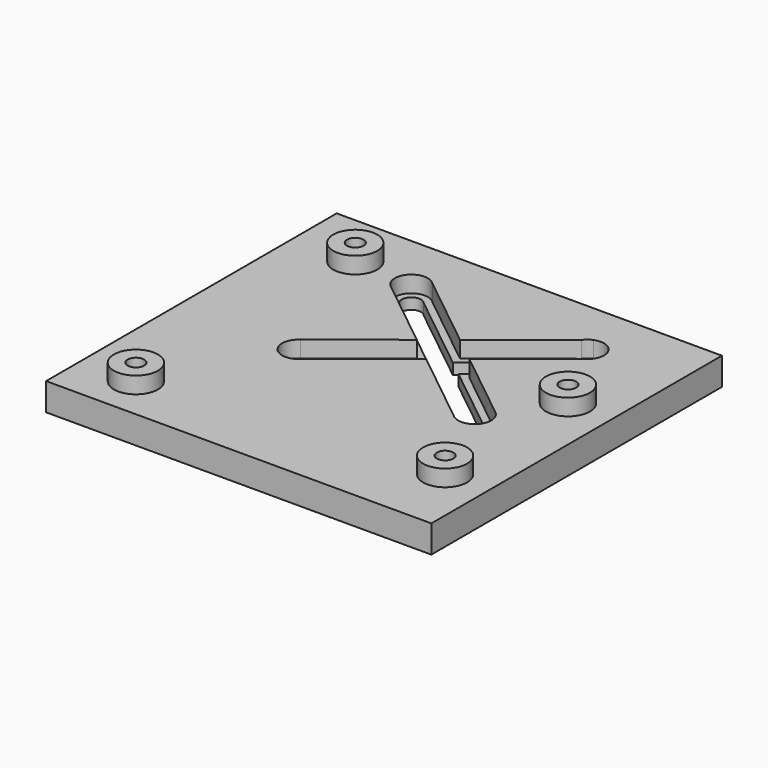
from build123d import *

# Parameters (mm, degrees)
F0_W          = 70
F0_H          = 60
F1_DEPTH      = 5
F2_R          = 4
F3_DEPTH      = 3
F4_R          = 1.5
F5_DEPTH      = 3.001
F5_DEPTH_BACK = 5
F6_DEPTH      = 3
F7_DEPTH      = 3
F9_DEPTH      = 5
F11_DEPTH     = 3
F13_DEPTH     = 2.5


with BuildPart() as f1:
    # F0 (on Top) → F1 (new body)
    with BuildSketch(Plane.XY):
        Rectangle(F0_W, F0_H)
    extrude(amount=F1_DEPTH)

    # F2 (on face) → F3 (join)
    with BuildSketch(Plane.XY.offset(5)):
        with Locations((-23.7, 23.1)):
            Circle(F2_R)
        with Locations((-25, -25.1)):
            Circle(F2_R)
        with Locations((27.1, 7.9)):
            Circle(F2_R)
        with Locations((27.1, -20)):
            Circle(F2_R)
    extrude(amount=F3_DEPTH)

    # F4 (on face) → F5 (cut, two sides)
    with BuildSketch(Plane.XY.offset(5)) as f5_sk:
        with Locations((-23.7, 23.1)):
            Circle(F4_R)
        with Locations((27.1, 7.9)):
            Circle(F4_R)
        with Locations((27.1, -20)):
            Circle(F4_R)
        with Locations((-25, -25.1)):
            Circle(F4_R)
    extrude(amount=F5_DEPTH, mode=Mode.SUBTRACT)
    extrude(f5_sk.sketch, amount=-F5_DEPTH_BACK, mode=Mode.SUBTRACT)

    # F6 (add): a face of the model
    f6_faces = [f1.faces().sort_by_distance(p)[0] for p in [
        (0, -30, 2.5),
    ]]
    extrude(f6_faces, amount=F6_DEPTH)

    # F7 (add): a face of the model
    f7_faces = [f1.faces().sort_by_distance(p)[0] for p in [
        (0, 30, 2.5),
    ]]
    extrude(f7_faces, amount=F7_DEPTH)

    # F8 (on face) → F9 (cut)
    with BuildSketch(Plane.XY.offset(5)):
        with BuildLine():
            Line((-14.3054683646, -1.7219720702), (-14.0948043176, -1.5533969252))
            ThreePointArc((-14.0948043176, -1.5533969252), (-14.2033899748, -1.6336185148), (-14.3054683646, -1.7219720702))
        make_face()
        with BuildLine():
            Line((0.0942490372, 9.8008030979), (-14.0948043176, -1.5533969252))
            Line((-14.0948043176, -1.5533969252), (-14.3054683646, -1.7219720702))
            ThreePointArc((-14.3054683646, -1.7219720702), (-14.4654537532, -4.1069079107), (-12.0966540364, -4.4267550448))
            Line((-12.0966540364, -4.4267550448), (-11.9406668878, -4.3019831308))
            Line((-11.9406668878, -4.3019831308), (2.8915675597, 7.5621114407))
            Line((2.8915675597, 7.5621114407), (17.79653445, -4.3663210058))
            ThreePointArc((17.79653445, -4.3663210058), (20.2569293491, -4.0927049714), (19.9819440544, -1.632462731))
            Line((19.9819440544, -1.632462731), (5.6767092201, 9.7899068663))
            Line((5.6767092201, 9.7899068663), (19.9831212168, 21.2334034958))
            ThreePointArc((19.9831212168, 21.2334034958), (20.2564890013, 23.6932556011), (17.7966100252, 23.9663814852))
            Line((17.7966100252, 23.9663814852), (2.875636553, 12.0264928184))
            Line((2.875636553, 12.0264928184), (-11.7579023913, 23.711004976))
            ThreePointArc((-11.7579023913, 23.711004976), (-14.2972510493, 23.8856651764), (-14.3249394698, 21.3404675134))
            Line((-14.3249394698, 21.3404675134), (-14.0726513096, 21.1385615113))
            Line((-14.0726513096, 21.1385615113), (0.0942490372, 9.8008030979))
        make_face()
        with BuildLine():
            Line((-11.9406668878, -4.3019831308), (-12.0966540364, -4.4267550448))
            ThreePointArc((-12.0966540364, -4.4267550448), (-12.0168787832, -4.3665965042), (-11.9406668878, -4.3019831308))
        make_face()
        with BuildLine():
            ThreePointArc((-14.3249394698, 21.3404675134), (-14.20346555, 21.2336789942), (-14.0726513096, 21.1385615113))
            Line((-14.0726513096, 21.1385615113), (-14.3249394698, 21.3404675134))
        make_face()
    extrude(amount=-F9_DEPTH, mode=Mode.SUBTRACT)

    # F10 (on face) → F11 (cut)
    with BuildSketch(Plane.XY.offset(5)):
        with BuildLine():
            Line((-1.8575315971, 9.7664474073), (-14.7756829148, -0.5049047258))
            ThreePointArc((-14.7756829148, -0.5049047258), (-15.6013647029, -4.6712575855), (-11.433176099, -5.4876216764))
            Line((-11.433176099, -5.4876216764), (-11.0521931213, -5.1829866811))
            Line((-11.0521931213, -5.1829866811), (2.8911088828, 5.9661144314))
            Line((2.8911088828, 5.9661144314), (16.9025515531, -5.2472313346))
            Line((16.9025515531, -5.2472313346), (17.1329612476, -5.431628019))
            ThreePointArc((17.1329612476, -5.431628019), (21.2784372428, -4.8153147212), (20.7625294306, -0.6561498487))
            Line((20.7625294306, -0.6561498487), (7.6801953311, 9.7954806055))
            Line((7.6801953311, 9.7954806055), (20.7635173832, 20.2569394769))
            ThreePointArc((20.7635173832, 20.2569394769), (21.4878080636, 24.1004643496), (17.7966100252, 25.3936532288))
            Line((17.7966100252, 25.3936532288), (16.4145835398, 24.2947900603))
            Line((16.4145835398, 24.2947900603), (2.9409192439, 13.5817439671))
            Line((2.9409192439, 13.5817439671), (-10.9395035381, 24.6709768489))
            ThreePointArc((-10.9395035381, 24.6709768489), (-15.232323279, 24.7203169337), (-15.1789230669, 20.4275457788))
            Line((-15.1789230669, 20.4275457788), (-14.7762238118, 20.1052659041))
            Line((-14.7762238118, 20.1052659041), (-1.8575315971, 9.7664474073))
        make_face()
        with BuildLine():
            Line((-11.0521931213, -5.1829866811), (-11.433176099, -5.4876216764))
            ThreePointArc((-11.433176099, -5.4876216764), (-11.2364826168, -5.3430605231), (-11.0521931213, -5.1829866811))
        make_face()
        with BuildLine():
            ThreePointArc((-15.1789230669, 20.4275457788), (-14.9845123714, 20.2577354186), (-14.7762238118, 20.1052659041))
            Line((-14.7762238118, 20.1052659041), (-15.1789230669, 20.4275457788))
        make_face()
        with BuildLine():
            Line((17.1329612476, -5.431628019), (16.9025515531, -5.2472313346))
            ThreePointArc((16.9025515531, -5.2472313346), (17.0154876286, -5.3422645814), (17.1329612476, -5.431628019))
        make_face()
        with BuildLine():
            ThreePointArc((17.7966100252, 25.3936532288), (17.0229247716, 24.9481972003), (16.4145835398, 24.2947900603))
            Line((16.4145835398, 24.2947900603), (17.7966100252, 25.3936532288))
        make_face()
    extrude(amount=-F11_DEPTH, mode=Mode.SUBTRACT)

    # F12 (on face) → F13 (cut)
    with BuildSketch(Plane(origin=(0, 0, 0), x_dir=(1, 0, 0), z_dir=(0, 0, -1))):
        Polygon((-24.6492034201, 28.2559903506), (-27.5577695278, 26.981793925), (-27.9085661076, 23.8258035744), (-25.3507965799, 21.9440096494), (-22.4422304722, 23.218206075), (-22.0914338924, 26.3741964256), align=None)
        Polygon((27.1832127793, 23.1743359883), (24.3925507836, 21.659232375), (24.3093380043, 18.4848963867), (27.0167872207, 16.8256640117), (29.8074492164, 18.340767625), (29.8906619957, 21.5151036133), align=None)
        Polygon((27.1178128759, -4.7246234814), (24.3589497063, -6.2968853377), (24.3411368304, -9.4722618563), (27.0821871241, -11.0753765186), (29.8410502937, -9.5031146623), (29.8588631696, -6.3277381437), align=None)
        Polygon((-23.1561984645, -19.9714838624), (-26.1374736836, -21.0647959868), (-26.6812752191, -24.1933121244), (-24.2438015355, -26.2285161376), (-21.2625263164, -25.1352040132), (-20.7187247809, -22.0066878756), align=None)
    extrude(amount=-F13_DEPTH, mode=Mode.SUBTRACT)


solid = f1.part
